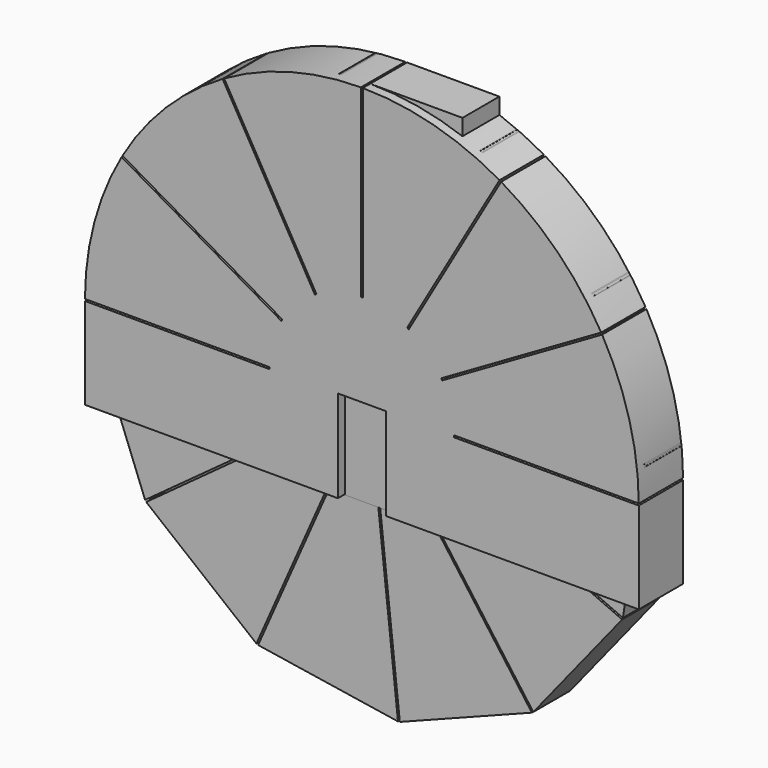
from build123d import *

# Parameters (mm, degrees)
F1_DEPTH = 3
F3_DEPTH = 2.5
F5_DEPTH = 2.5


with BuildPart() as f1:
    # F0 (on Front) → F1 (new body)
    with BuildSketch(Plane.XZ):
        with BuildLine():
            Line((-0.05, 4.99975), (-0.05, 14.999917))
            ThreePointArc((-0.05, 14.999917), (-3.882286, 14.488887), (-7.456657, 13.015309))
            Line((-7.456657, 13.015309), (-2.456574, 4.354911))
            Line((-2.456574, 4.354911), (-2.543176, 4.304911))
            Line((-2.543176, 4.304911), (-7.54326, 12.965309))
            ThreePointArc((-7.54326, 12.965309), (-10.606602, 10.606602), (-12.965309, 7.54326))
            Line((-12.965309, 7.54326), (-4.304911, 2.543176))
            Line((-4.304911, 2.543176), (-4.354911, 2.456574))
            Line((-4.354911, 2.456574), (-13.015309, 7.456657))
            ThreePointArc((-13.015309, 7.456657), (-14.488887, 3.882286), (-14.999917, 0.05))
            Line((-14.999917, 0.05), (-5, 0.05))
            Line((-5, 0.05), (-5, -0.05))
            Line((-5, -0.05), (-15, -0.05))
            Line((-15, -0.05), (-15, -5))
            Line((-15, -5), (-1.3, -5))
            Line((-1.3, -5), (-1.3, 0))
            Line((-1.3, 0), (1.3, 0))
            Line((1.3, 0), (1.3, -5))
            Line((1.3, -5), (15, -5))
            Line((15, -5), (15, -0.05))
            Line((15, -0.05), (5, -0.05))
            Line((5, -0.05), (5, 0.05))
            Line((5, 0.05), (14.999917, 0.05))
            ThreePointArc((14.999917, 0.05), (14.488887, 3.882286), (13.015309, 7.456657))
            Line((13.015309, 7.456657), (4.354911, 2.456574))
            Line((4.354911, 2.456574), (4.304911, 2.543176))
            Line((4.304911, 2.543176), (12.965309, 7.54326))
            ThreePointArc((12.965309, 7.54326), (10.606602, 10.606602), (7.54326, 12.965309))
            Line((7.54326, 12.965309), (2.543176, 4.304911))
            Line((2.543176, 4.304911), (2.456574, 4.354911))
            Line((2.456574, 4.354911), (7.456657, 13.015309))
            ThreePointArc((7.456657, 13.015309), (3.882286, 14.488887), (0.05, 14.999917))
            Line((0.05, 14.999917), (0.05, 4.99975))
            Line((0.05, 4.99975), (-0.05, 4.99975))
        make_face()
    extrude(amount=F1_DEPTH)


with BuildPart() as f3:
    # F2 (on Front) → F3 (new body)
    with BuildSketch(Plane.XZ):
        Polygon((-0.585585, 4.965591), (-1.657403, 14.908153), (-8.808615, 12.141127), (-2.909112, 4.066525), (-2.989857, 4.00753), (-8.88936, 12.082133), (-13.698978, 6.110212), (-4.552558, 2.067153), (-4.592988, 1.97569), (-13.739408, 6.01875), (-14.918699, -1.557894), (-4.976137, -0.486076), (-4.965419, -0.5855), (-14.907981, -1.657318), (-12.140955, -8.80853), (-4.066353, -2.909028), (-4.007359, -2.989772), (-12.081961, -8.889275), (-6.110041, -13.698893), (-2.066981, -4.552473), (-1.975519, -4.592903), (-6.018578, -13.739323), (1.558066, -14.918614), (0.486248, -4.976052), (0.585672, -4.965334), (1.65749, -14.907896), (8.808702, -12.140871), (2.909199, -4.066268), (2.989944, -4.007274), (8.889446, -12.081877), (13.699065, -6.109956), (4.552644, -2.066897), (4.593074, -1.975434), (13.739495, -6.018493), (14.918786, 1.558151), (4.976224, 0.486333), (4.965506, 0.585757), (14.908068, 1.657575), (12.141042, 8.808786), (4.06644, 2.909284), (4.007446, 2.990029), (12.082048, 8.889531), (6.110127, 13.699149), (2.067068, 4.552729), (1.975605, 4.593159), (6.018665, 13.739579), (-1.557979, 14.918871), (-0.486161, 4.976309), align=None)
    extrude(amount=F3_DEPTH)


with BuildPart() as f5:
    # F4 (on Front) → F5 (new body)
    with BuildSketch(Plane.XZ):
        Polygon((-5, -0.05), (-14.999917, -0.05), (-14.999917, -5.05), (5.05, -5.05), (5.05, 14.999917), (0.05, 14.999917), (0.05, 5), (-0.05, 5), (-0.05, 14.999917), (-7.456657, 13.015309), (-2.456574, 4.354911), (-2.543176, 4.304911), (-7.54326, 12.965309), (-12.965309, 7.54326), (-4.304911, 2.543176), (-4.354911, 2.456574), (-13.015309, 7.456657), (-14.999917, 0.05), (-5, 0.05), align=None)
    extrude(amount=F5_DEPTH)


solid = Compound([f1.part, f3.part, f5.part])
